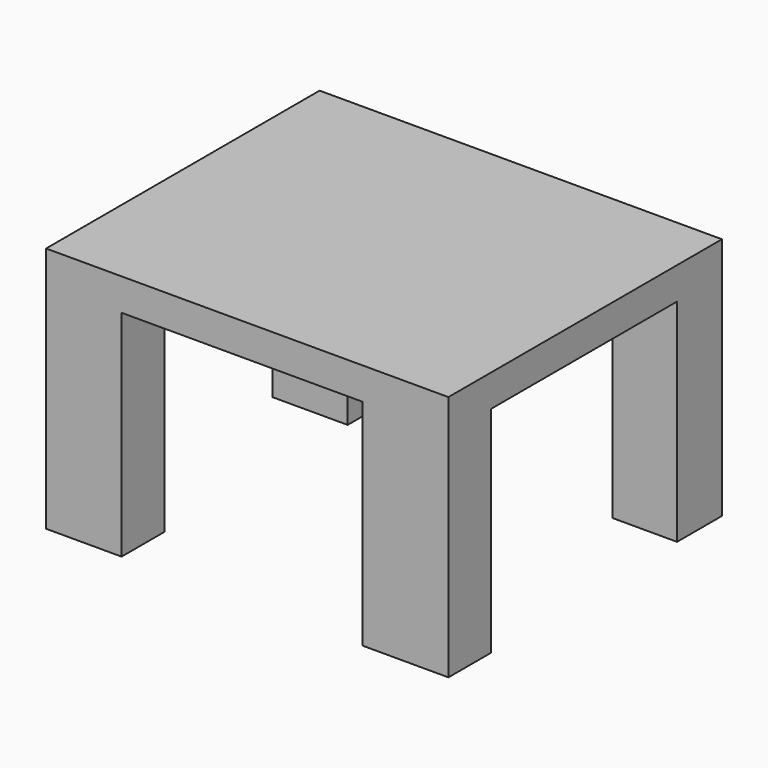
from build123d import *

# Parameters (mm, degrees)
F0_W     = 38.2699640468
F0_H     = 32.5195547193
F1_DEPTH = 3.048
F2_W     = 6.1469888315
F2_H     = 20.1264321804
F2_W_2   = 7.1384422481
F2_H_2   = 20.5230116844
F3_DEPTH = 5.334
F4_W     = 7.1802772582
F4_H     = 23.4715147685
F4_W_2   = 8.1633431837
F5_DEPTH = 5.08


with BuildPart() as f1:
    # F0 (on Top) → F1 (new body)
    with BuildSketch(Plane.XY):
        with Locations((-32.6186991297, -38.7656884268)):
            Rectangle(F0_W, F0_H)
    extrude(amount=F1_DEPTH)

    # F2 (on face) → F3 (join)
    with BuildSketch(Plane(origin=(0, -22.5059110671, 0), x_dir=(-1, 0, 0), z_dir=(0, 1, 0))):
        with Locations((16.557211522, -10.0632160902)):
            Rectangle(F2_W, F2_H)
        with Locations((48.382749781, -10.2615058422)):
            Rectangle(F2_W_2, F2_H_2)
    extrude(amount=-F3_DEPTH)

    # F4 (on face) → F5 (join)
    with BuildSketch(Plane.XZ.offset(55.0254657865)):
        with Locations((-48.163542524, -8.6877573842)):
            Rectangle(F4_W, F4_H)
        with Locations((-17.5653886981, -8.6877573842)):
            Rectangle(F4_W_2, F4_H)
    extrude(amount=-F5_DEPTH)


solid = f1.part
